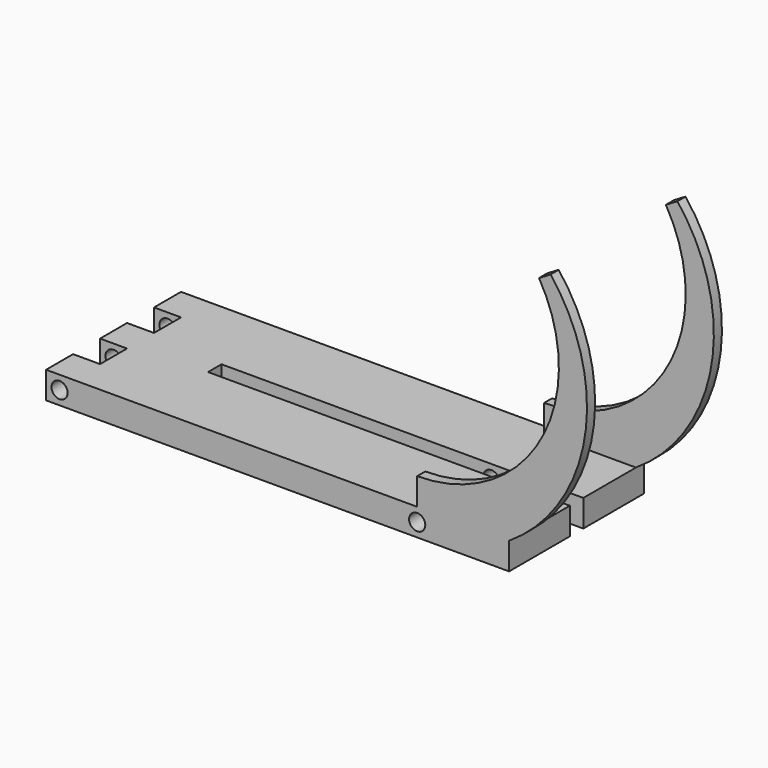
from build123d import *

# Parameters (mm, degrees)
PAD_DEPTH           = 4
SKETCH001_R         = 1.2
POCKET_DEPTH        = 25.001
PAD001_DEPTH        = 1.5
LINEARPATTERN_COUNT = 2
LINEARPATTERN_PITCH = 23.5
SKETCH003_R         = 1.2
POCKET001_DEPTH     = 25.001
SKETCH004_W         = 57.256356
SKETCH004_H         = 2.5
POCKET002_DEPTH     = 40.745142


with BuildPart() as part:
    # Sketch → Pad (new body)
    with BuildSketch(Plane.XY):
        Polygon((41.369523, 12.5), (-27.256356, 12.5), (-27.256356, 7.5), (-23.256356, 7.5), (-23.256356, 2.5), (-27.256356, 2.5), (-27.256356, -2.5), (-23.256356, -2.5), (-23.256356, -7.5), (-27.256356, -7.5), (-27.256356, -12.5), (41.369523, -12.5), align=None)
    extrude(amount=PAD_DEPTH)

    # Sketch001 → Pocket (cut, through all)
    with BuildSketch(Plane.XZ.offset(12.5)):
        with Locations((-25.256356, 2)):
            Circle(SKETCH001_R)
    extrude(amount=-POCKET_DEPTH, mode=Mode.SUBTRACT)

    # Sketch002 → Pad001 (new body)
    with BuildSketch(Plane.XZ.offset(12.5)):
        with BuildLine():
            ThreePointArc((27.743644, 8), (45.994413, 18.612054), (45.799645, 39.722912))
            Line((47.519264, 40.744142), (45.799645, 39.722912))
            ThreePointArc((27.743644, 0), (50.388512, 14.180292), (47.519264, 40.744142))
            Line((27.743644, 8), (27.743644, 0))
        make_face()
    pad001 = extrude(amount=-PAD001_DEPTH)

    # LinearPattern: Pad001 ×2
    with Locations(*[(0, i * LINEARPATTERN_PITCH, 0) for i in range(1, LINEARPATTERN_COUNT)]):
        add(pad001)

    # Sketch003 → Pocket001 (cut, through all)
    with BuildSketch(Plane(origin=(0, 12.5, 0), x_dir=(-1, 0, 0), z_dir=(0, 1, 0))):
        with Locations((-27.743644, 2)):
            Circle(SKETCH003_R)
    extrude(amount=-POCKET001_DEPTH, mode=Mode.SUBTRACT)

    # Sketch004 → Pocket002 (cut, through all)
    with BuildSketch(Plane(origin=(0, 0, 0), x_dir=(1, 0, 0), z_dir=(0, 0, -1))):
        with Locations((16.371822, 0)):
            Rectangle(SKETCH004_W, SKETCH004_H)
    extrude(amount=-POCKET002_DEPTH, mode=Mode.SUBTRACT)


solid = part.part
